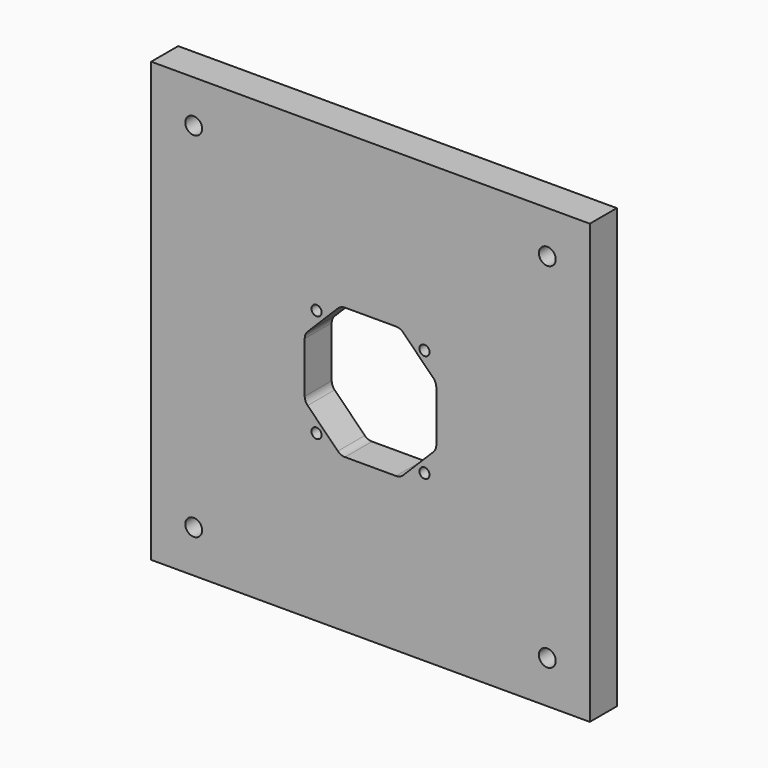
from build123d import *

# Parameters (mm, degrees)
F0_W     = 130
F0_H     = 130
F1_DEPTH = 10
F3_DEPTH = 10
F4_R     = 1.5
F5_DEPTH = 10
F6_R     = 2.5
F7_DEPTH = 10
F8_R     = 3


with BuildPart() as f1:
    # F0 (on Front) → F1 (new body)
    with BuildSketch(Plane.XZ):
        Rectangle(F0_W, F0_H)
    extrude(amount=F1_DEPTH)

    # F2 (on face) → F3 (cut, through all)
    with BuildSketch(Plane.XZ.offset(10)):
        Polygon((8.8, 19.5), (-8.8, 19.5), (-19.5, 8.768557), (-19.5, -8.768557), (-8.8, -19.5), (8.8, -19.5), (19.5, -8.768557), (19.5, 8.768557), align=None)
    extrude(amount=-F3_DEPTH, mode=Mode.SUBTRACT)

    # F4 (on face) → F5 (cut, through all)
    with BuildSketch(Plane.XZ.offset(10)):
        with Locations((16, 16)):
            Circle(F4_R)
        with Locations((16, -16)):
            Circle(F4_R)
        with Locations((-16, 16)):
            Circle(F4_R)
        with Locations((-16, -16)):
            Circle(F4_R)
    extrude(amount=-F5_DEPTH, mode=Mode.SUBTRACT)

    # F6 (on face) → F7 (cut, through all)
    with BuildSketch(Plane.XZ.offset(10)):
        with Locations((52.4, 52.4)):
            Circle(F6_R)
        with Locations((52.4, -52.4)):
            Circle(F6_R)
        with Locations((-52.4, 52.4)):
            Circle(F6_R)
        with Locations((-52.4, -52.4)):
            Circle(F6_R)
    extrude(amount=-F7_DEPTH, mode=Mode.SUBTRACT)

    # F8
    f8_edges = [f1.edges().sort_by_distance(p)[0] for p in [
        (-19.5, -5, 8.768557),
        (-8.8, -5, 19.5),
        (-19.5, -5, -8.768557),
        (-8.8, -5, -19.5),
        (8.8, -5, -19.5),
        (19.5, -5, -8.768557),
        (19.5, -5, 8.768557),
        (8.8, -5, 19.5),
    ]]
    fillet(f8_edges, radius=F8_R)


solid = f1.part
